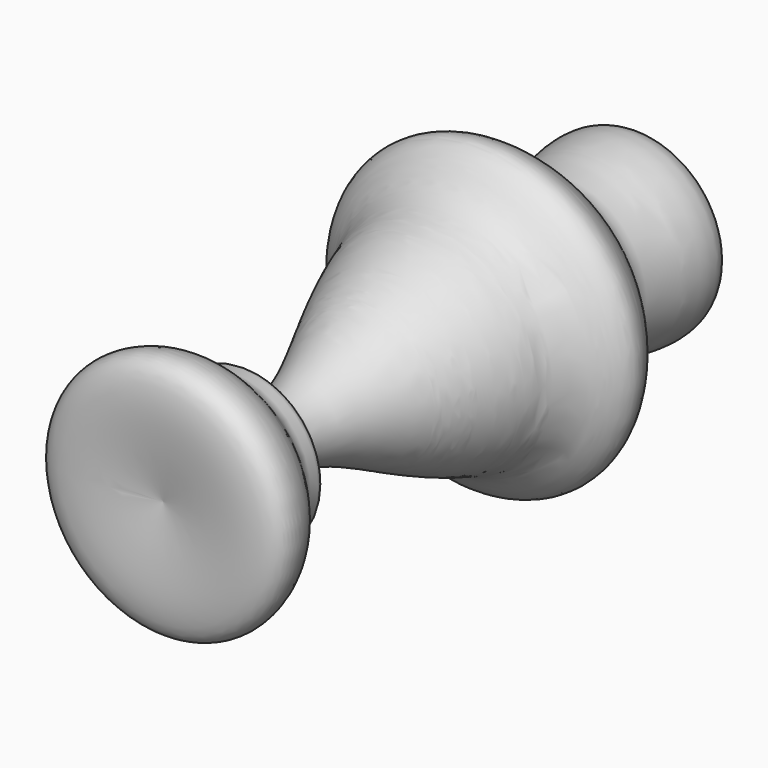
from build123d import *


with BuildPart() as f1:
    # F0 (on Top) → F1 (revolve)
    with BuildSketch(Plane.XY):
        with BuildLine():
            add(Edge.make_bspline(
                [(0, 0), (-5.0305041062, -0.7890385226), (-13.1101882337, -2.0563433279), (-11.6512918386, 4.7434688617), (-7.3080193726, 7.5819260514), (-8.4587040323, 10.618644185), (-0.7545058929, 11.4947914143), (-6.1932927894, 22.923990877), (-7.4343700814, 25.2578362308), (-10.5105404799, 31.6443155125), (-11.4530982827, 36.1821443521), (-17.383243202, 39.60636638), (-10.265140022, 46.3305740013), (-7.0414243719, 48.6375573136), (-11.3987225872, 60.7967114301), (-3.784589579, 59.527239504), (0, 58.8962510228)],
                knots=[0, 0, 0, 0, 0.0999558182, 0.1605428444, 0.2255920307, 0.267680306, 0.3321518184, 0.4255019554, 0.4803420309, 0.555687989, 0.6206026218, 0.6847269556, 0.7667319597, 0.8255861602, 0.9133079498, 1, 1, 1, 1], degree=3))
            Line((0, 0), (0, 58.8962510228))
        make_face()
    revolve(axis=Axis((0, 29.4481255114, 0), (0, -1, 0)))


solid = f1.part
